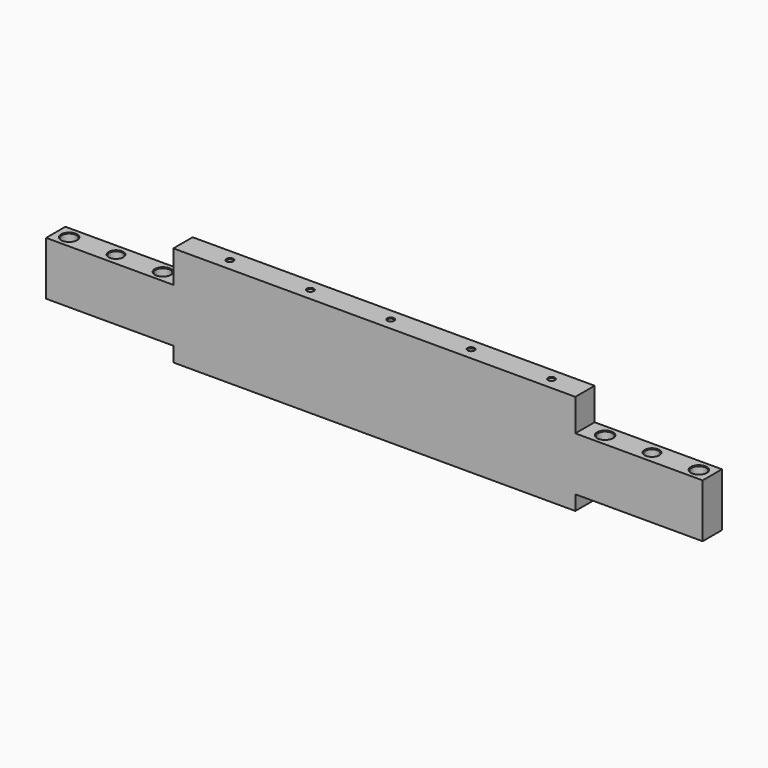
from build123d import *

# Parameters (mm, degrees)
F1_DEPTH = 9
F2_R     = 5.5
F3_DEPTH = 51
F4_R     = 2.1
F5_DEPTH = 25
F6_R     = 5
F7_DEPTH = 25
F8_W     = 95
F8_H     = 11
F9_DEPTH = 25
F10_SIZE = 5
F11_SIZE = 2.1
F12_SIZE = 0.5


with BuildPart() as f1:
    # F0 (on Front) → F1 (new body, symmetric)
    with BuildSketch(Plane.XZ):
        Polygon((-245, 13.5), (-245, -37.5), (245, -37.5), (245, 13.5), (150, 13.5), (150, 37.5), (-150, 37.5), (-150, 13.5), align=None)
    extrude(amount=F1_DEPTH, both=True)

    # F2 (on face) → F3 (cut, through all)
    with BuildSketch(Plane(origin=(0, 0, -37.5), x_dir=(1, 0, 0), z_dir=(0, 0, -1))):
        with Locations((235, 0)):
            Circle(F2_R)
        with Locations((165, 0)):
            Circle(F2_R)
        with Locations((-165, 0)):
            Circle(F2_R)
        with Locations((-235, 0)):
            Circle(F2_R)
    extrude(amount=-F3_DEPTH, mode=Mode.SUBTRACT)

    # F4 (on face) → F5 (cut)
    with BuildSketch(Plane.XY.offset(37.5)):
        with Locations((-115, 0)):
            Circle(F4_R)
        with Locations((-55, 0)):
            Circle(F4_R)
        with Locations((5, 0)):
            Circle(F4_R)
        with Locations((65, 0)):
            Circle(F4_R)
        with Locations((125, 0)):
            Circle(F4_R)
    extrude(amount=-F5_DEPTH, mode=Mode.SUBTRACT)

    # F6 (on face) → F7 (cut)
    with BuildSketch(Plane.XY.offset(13.5)):
        with Locations((-200, 0)):
            Circle(F6_R)
        with Locations((200, 0)):
            Circle(F6_R)
    extrude(amount=-F7_DEPTH, mode=Mode.SUBTRACT)

    # F8 (on face) → F9 (cut)
    with BuildSketch(Plane.XZ.offset(9)):
        with Locations((-197.5, -32)):
            Rectangle(F8_W, F8_H)
        with Locations((197.5, -32)):
            Rectangle(F8_W, F8_H)
    extrude(amount=-F9_DEPTH, mode=Mode.SUBTRACT)

    # F10
    f10_edges = [f1.edges().sort_by_distance(p)[0] for p in [
        (-205, 0, -11.5),
        (195, 0, -11.5),
    ]]
    chamfer(f10_edges, length=F10_SIZE)

    # F11
    f11_edges = [f1.edges().sort_by_distance(p)[0] for p in [
        (122.9, 0, 12.5),
        (62.9, 0, 12.5),
        (2.9, 0, 12.5),
        (-57.1, 0, 12.5),
        (-117.1, 0, 12.5),
    ]]
    chamfer(f11_edges, length=F11_SIZE)

    # F12
    f12_edges = [f1.edges().sort_by_distance(p)[0] for p in [
        (-170.5, 0, -26.5),
        (-159.5, 0, -6.5),
        (-170.5, 0, 13.5),
        (-240.5, 0, -26.5),
        (-229.5, 0, -6.5),
        (-240.5, 0, 13.5),
        (-205, 0, 13.5),
        (-117.1, 0, 37.5),
        (-57.1, 0, 37.5),
        (2.9, 0, 37.5),
        (62.9, 0, 37.5),
        (122.9, 0, 37.5),
        (159.5, 0, -26.5),
        (170.5, 0, -6.5),
        (159.5, 0, 13.5),
        (229.5, 0, -26.5),
        (240.5, 0, -6.5),
        (229.5, 0, 13.5),
        (195, 0, 13.5),
    ]]
    chamfer(f12_edges, length=F12_SIZE)


solid = f1.part
